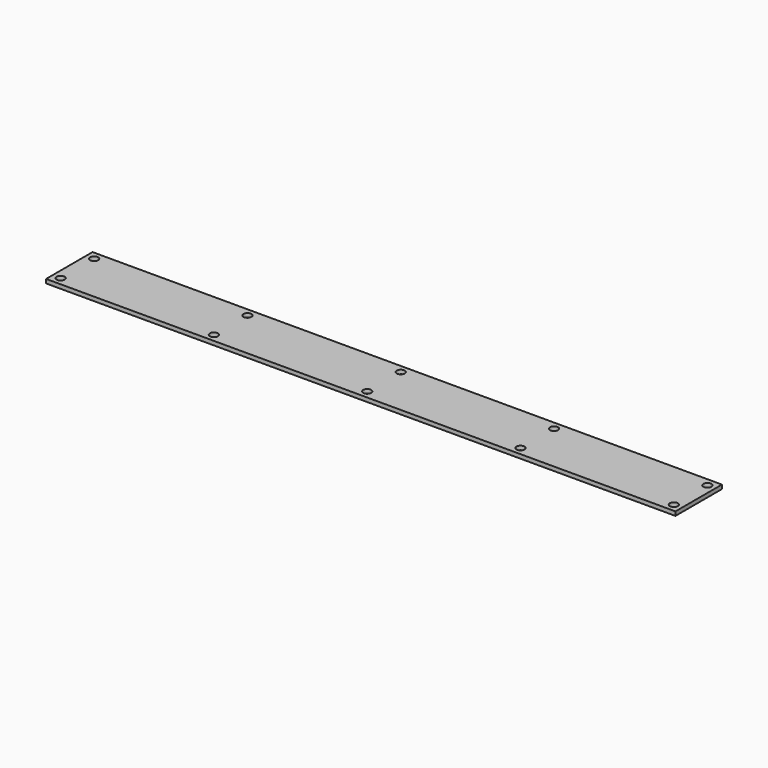
from build123d import *

# Parameters (mm, degrees)
F0_W     = 247.65
F0_H     = 22.86
F1_DEPTH = 1.5748
F2_R     = 1.5875
F3_DEPTH = 1.5748


with BuildPart() as f1:
    # F0 (on Top) → F1 (new body)
    with BuildSketch(Plane.XY):
        with Locations((123.825, 11.43)):
            Rectangle(F0_W, F0_H)
    extrude(amount=-F1_DEPTH)

    # F2 (on face) → F3 (cut)
    with BuildSketch(Plane.XY):
        with Locations((3.175, 3.175)):
            Circle(F2_R)
        with Locations((3.175, 19.685)):
            Circle(F2_R)
        with Locations((244.475, 19.685)):
            Circle(F2_R)
        with Locations((244.475, 3.175)):
            Circle(F2_R)
        with Locations((123.825, 3.175)):
            Circle(F2_R)
        with Locations((123.825, 19.685)):
            Circle(F2_R)
        with Locations((63.5, 19.685)):
            Circle(F2_R)
        with Locations((63.5, 3.175)):
            Circle(F2_R)
        with Locations((184.15, 19.685)):
            Circle(F2_R)
        with Locations((184.15, 3.175)):
            Circle(F2_R)
    extrude(amount=-F3_DEPTH, mode=Mode.SUBTRACT)


solid = f1.part
